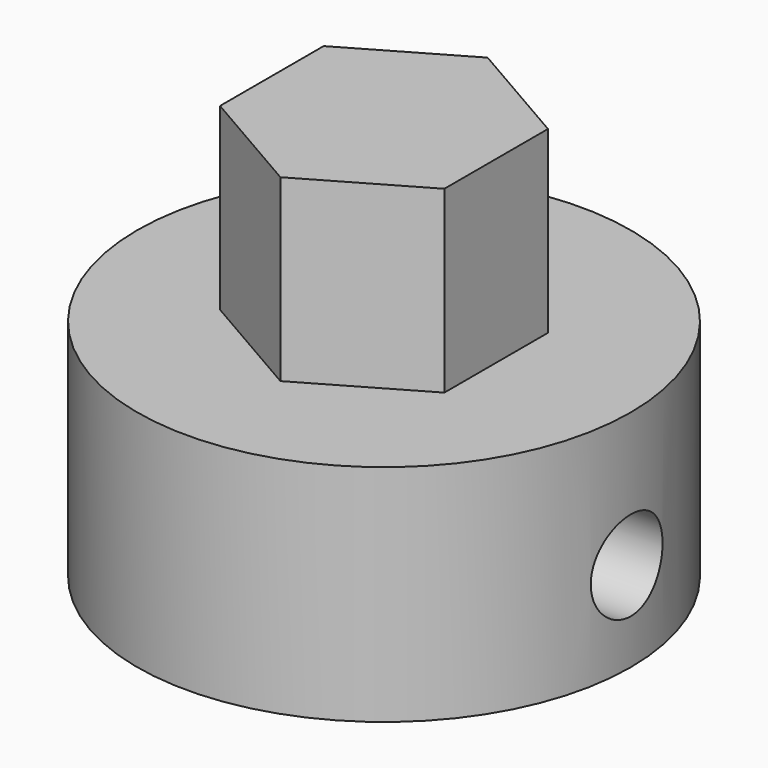
from build123d import *

# Parameters (mm, degrees)
F1_DEPTH = 9
F0_R     = 5.5
F2_DEPTH = 5
F3_W     = 2.5
F3_H     = 8
F5_R     = 1
F6_DEPTH = 12.5


with BuildPart() as f1:
    # F0 (on Top) → F1 (new body)
    with BuildSketch(Plane.XY):
        Polygon((0, 2.8867513459), (-2.5, 1.443375673), (-2.5, -1.443375673), (0, -2.8867513459), (2.5, -1.443375673), (2.5, 1.443375673), align=None)
    extrude(amount=F1_DEPTH)

    # F0 (on Top) → F2 (join)
    with BuildSketch(Plane.XY):
        Circle(F0_R)
        Polygon((-2.5, -1.443375673), (-2.5, 1.443375673), (0, 2.8867513459), (2.5, 1.443375673), (2.5, -1.443375673), (0, -2.8867513459), align=None, mode=Mode.SUBTRACT)
    extrude(amount=F2_DEPTH)

    # F3 (on Right) → F4 (revolve, cut)
    with BuildSketch(Plane.YZ):
        with Locations((1.25, 0)):
            Rectangle(F3_W, F3_H)
    revolve(axis=Axis((0, 0, -0.2936716191), (0, 0, -1)), mode=Mode.SUBTRACT)

    # F5 (on Right) → F6 (cut, symmetric)
    with BuildSketch(Plane.YZ):
        with Locations((0, 2)):
            Circle(F5_R)
    extrude(amount=F6_DEPTH, both=True, mode=Mode.SUBTRACT)


solid = f1.part
